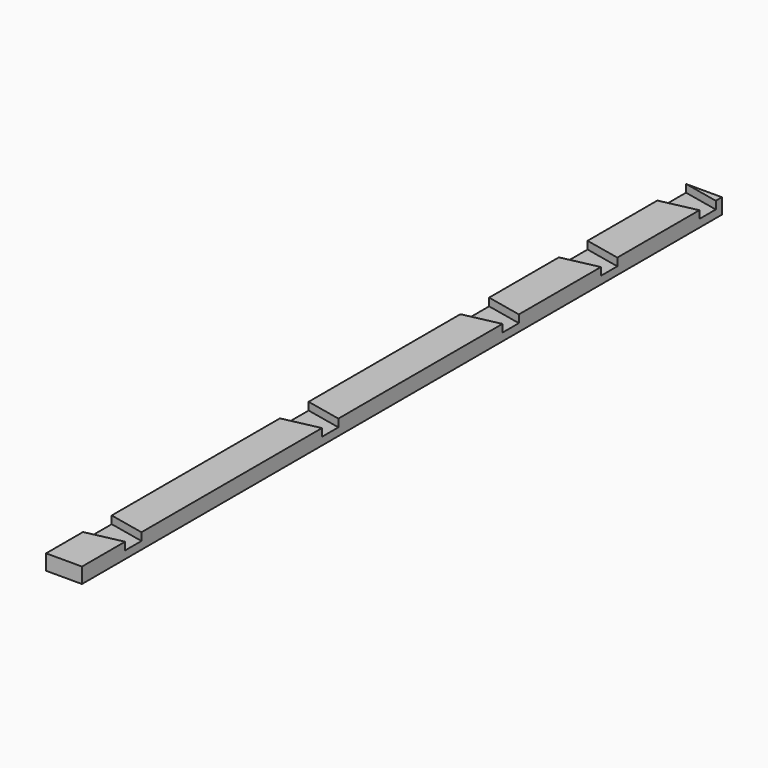
from build123d import *

# Parameters (mm, degrees)
F0_W     = 88.9
F0_H     = 38.1
F1_DEPTH = 1981.2
F3_DEPTH = 19.05


with BuildPart() as f1:
    # F0 (on Front) → F1 (new body)
    with BuildSketch(Plane.XZ):
        Rectangle(F0_W, F0_H)
    extrude(amount=F1_DEPTH)

    # F2 (on face) → F3 (cut)
    with BuildSketch(Plane.XY.offset(19.05)):
        Polygon((44.45, -19.05), (-44.45, 0), (-44.45, -88.9), (44.45, -69.85), align=None)
        Polygon((44.45, -323.85), (-44.45, -304.8), (-44.45, -393.7), (44.45, -374.65), align=None)
        Polygon((44.45, -628.65), (-44.45, -609.6), (-44.45, -698.5), (44.45, -679.45), align=None)
        Polygon((44.45, -1187.45), (-44.45, -1168.4), (-44.45, -1257.3), (44.45, -1238.25), align=None)
        Polygon((44.45, -1797.05), (-44.45, -1778), (-44.45, -1866.9), (44.45, -1847.85), align=None)
        Polygon((44.45, -19.05), (-44.45, 0), (-44.45, -88.9), (44.45, -69.85), align=None)
    extrude(amount=-F3_DEPTH, mode=Mode.SUBTRACT)


solid = f1.part
